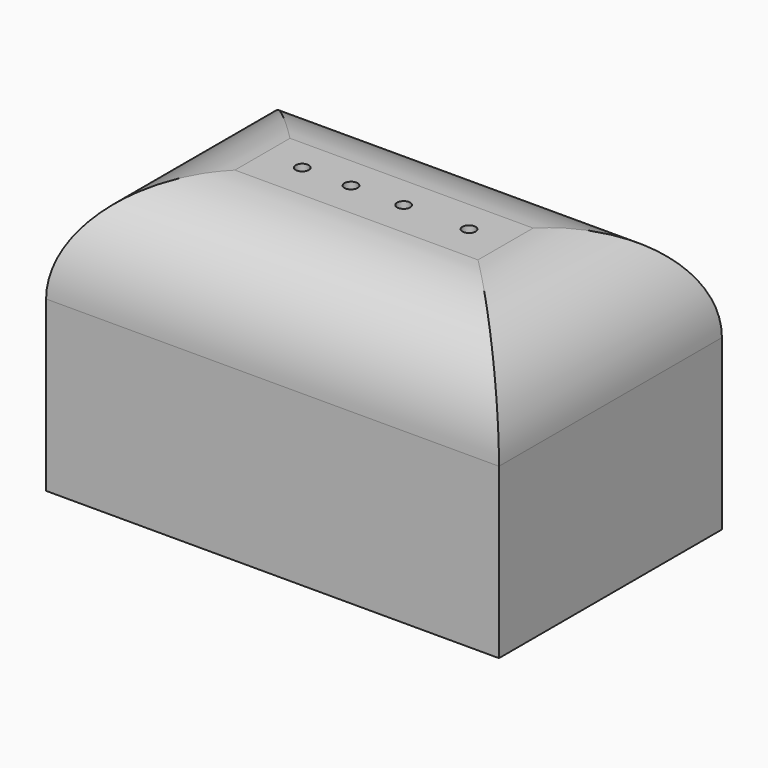
from build123d import *

# Parameters (mm, degrees)
F0_W     = 87.369591
F0_H     = 53.756926
F1_DEPTH = 52.832
F2_R     = 20.235938
F4_D     = 2.54


with BuildPart() as f1:
    # F0 (on Top) → F1 (new body)
    with BuildSketch(Plane.XY):
        with Locations((0.62067, -1.921026)):
            Rectangle(F0_W, F0_H)
    extrude(amount=F1_DEPTH)

    # F2
    f2_edges = [f1.edges().sort_by_distance(p)[0] for p in [
        (0.620671, -28.799489, 52.832),
        (0.620671, 24.957437, 52.832),
        (44.305466, -1.921026, 52.832),
        (-43.064125, -1.921026, 52.832),
    ]]
    fillet(f2_edges, radius=F2_R)

    # F4 (through all)
    with Locations(Plane.XY.offset(52.832)):
        with Locations((-15.424626, -1.575627), (-6.023078, -1.575627), (4.138236, -1.575627), (16.751727, -1.575627)):
            Hole(F4_D / 2)


solid = f1.part
